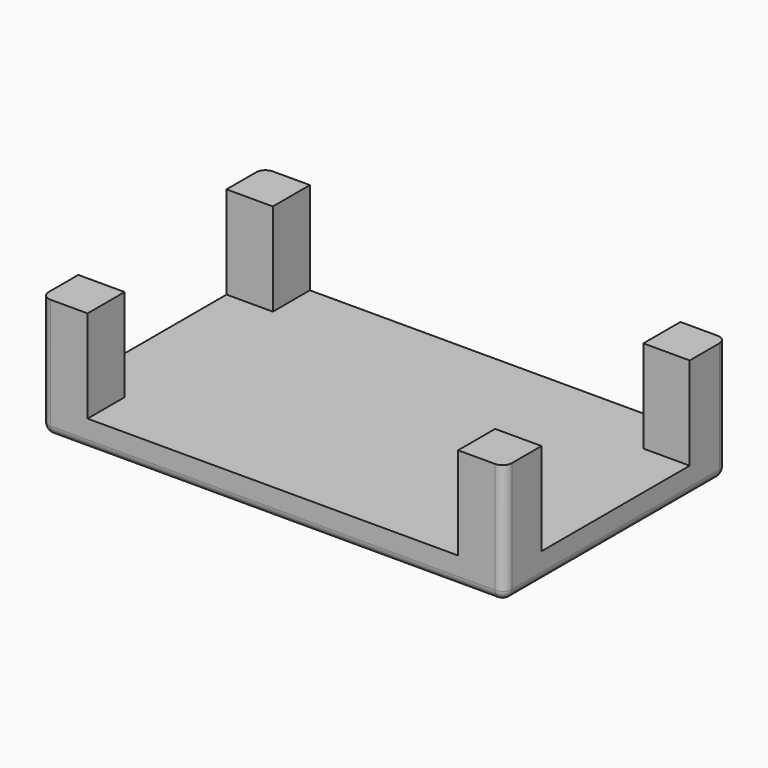
from build123d import *

# Parameters (mm, degrees)
F0_W     = 50
F0_H     = 30
F1_DEPTH = 3
F2_W     = 5
F2_H     = 5
F3_DEPTH = 10
F4_R     = 1
F5_R     = 1
F6_R     = 1
F7_R     = 1


with BuildPart() as f1:
    # F0 (on Top) → F1 (new body)
    with BuildSketch(Plane.XY):
        with Locations((0, 5)):
            Rectangle(F0_W, F0_H)
    extrude(amount=F1_DEPTH)

    # F2 (on face) → F3 (join)
    with BuildSketch(Plane.XY.offset(3)):
        with Locations((-22.5, 17.5)):
            Rectangle(F2_W, F2_H)
        with Locations((22.5, 17.5)):
            Rectangle(F2_W, F2_H)
        with Locations((22.5, -7.5)):
            Rectangle(F2_W, F2_H)
        with Locations((-22.5, -7.5)):
            Rectangle(F2_W, F2_H)
    extrude(amount=F3_DEPTH)

    # F4
    f4_edges = [f1.edges().sort_by_distance(p)[0] for p in [
        (0, 20, 0),
    ]]
    fillet(f4_edges, radius=F4_R)

    # F5
    f5_edges = [f1.edges().sort_by_distance(p)[0] for p in [
        (25, 4.5, 0),
    ]]
    fillet(f5_edges, radius=F5_R)

    # F6
    f6_edges = [f1.edges().sort_by_distance(p)[0] for p in [
        (-0.5, -10, 0),
    ]]
    fillet(f6_edges, radius=F6_R)

    # F7
    f7_edges = [f1.edges().sort_by_distance(p)[0] for p in [
        (-25, 5, 0),
    ]]
    fillet(f7_edges, radius=F7_R)


solid = f1.part
